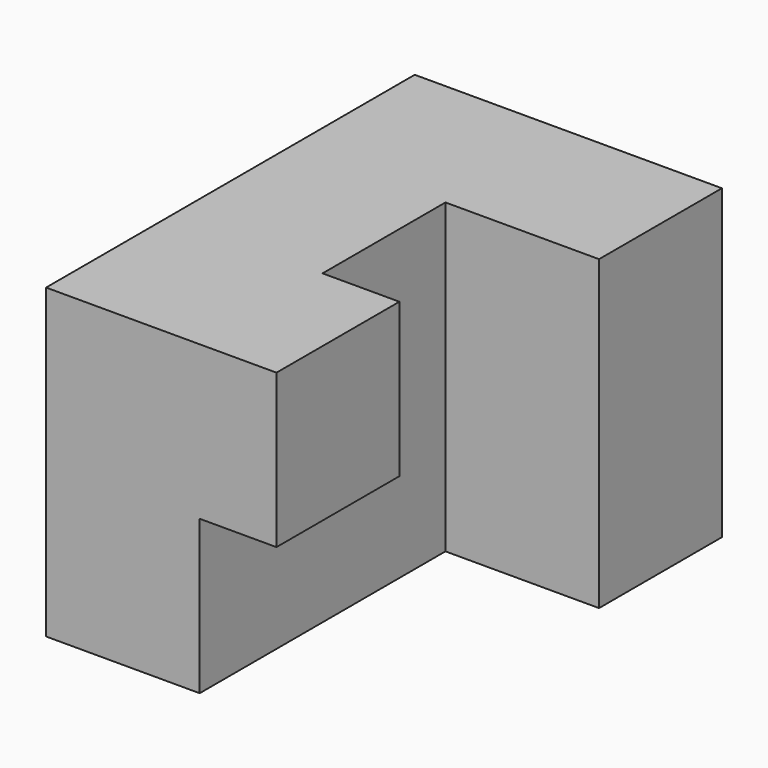
from build123d import *

# Parameters (mm, degrees)
F0_W     = 38.1
F0_H     = 25.4
F1_DEPTH = 12.7
F2_W     = 12.7
F2_H     = 25.4
F3_DEPTH = 12.7
F4_W     = 12.7
F4_H     = 12.7
F5_DEPTH = 6.35


with BuildPart() as f1:
    # F0 (on Right) → F1 (new body)
    with BuildSketch(Plane.YZ):
        with Locations((17.987861, 15.214669)):
            Rectangle(F0_W, F0_H)
    extrude(amount=F1_DEPTH)

    # F2 (on face) → F3 (join)
    with BuildSketch(Plane.YZ.offset(12.7)):
        with Locations((30.687861, 15.214669)):
            Rectangle(F2_W, F2_H)
    extrude(amount=F3_DEPTH)

    # F4 (on face) → F5 (join)
    with BuildSketch(Plane.YZ.offset(12.7)):
        with Locations((5.287861, 21.564669)):
            Rectangle(F4_W, F4_H)
    extrude(amount=F5_DEPTH)


solid = f1.part
